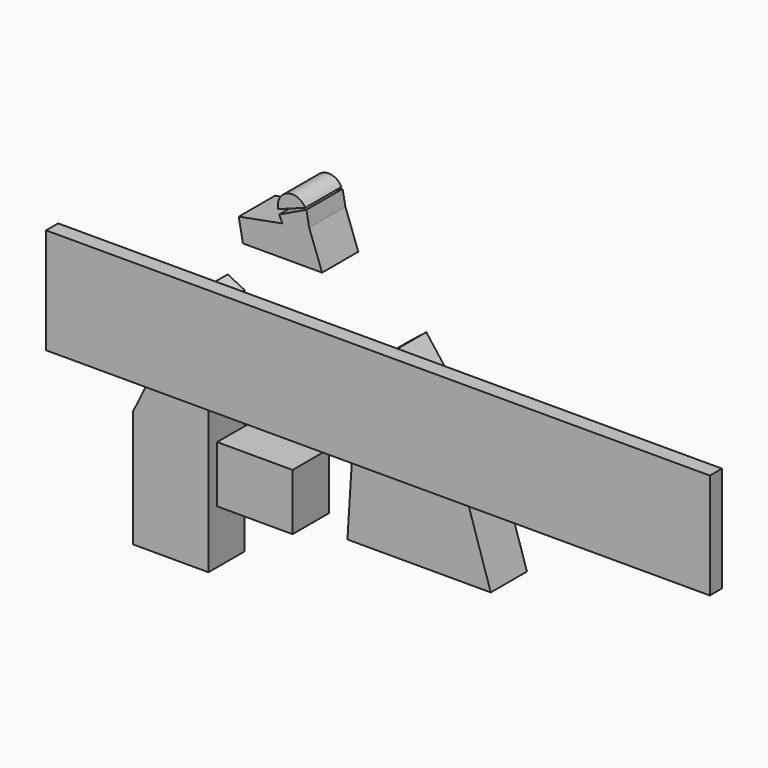
from build123d import *

# Parameters (mm, degrees)
F1_DEPTH  = 38.1
F3_DEPTH  = 38.1
F5_DEPTH  = 38.1
F6_W      = 63.5
F6_H      = 47.625
F7_DEPTH  = 38.1
F9_DEPTH  = 38.1
F11_W     = 558.8
F11_H     = 88.9
F12_DEPTH = 12.7


with BuildPart() as f1:
    # F0 (on Front) → F1 (new body)
    with BuildSketch(Plane.XZ):
        Polygon((0, 45.535351), (-14.912687, 33.68148), (0, -37.80462), (63.5, -37.80462), align=None)
        Polygon((63.5, -37.80462), (0, -37.80462), (-31.75, -37.80462), (-35.917188, -104.349267), (84.732812, -104.349267), align=None)
    extrude(amount=-F1_DEPTH)


with BuildPart() as f3:
    # F2 (on Front) → F3 (new body)
    with BuildSketch(Plane.XZ):
        Polygon((-152.901755, 26.997404), (-167.138389, 34.021211), (-216.401755, -68.252596), (-216.401755, -166.677596), (-152.901755, -166.677596), align=None)
    extrude(amount=-F3_DEPTH)


with BuildPart() as f5:
    # F4 (on Front) → F5 (new body)
    with BuildSketch(Plane.XZ):
        Polygon((-90.628035, 112.113184), (-127.418593, 105.225444), (-123.913054, 86.500762), (-57.238054, 86.500762), (-68.123768, 116.326317), align=None)
        Polygon((-93.370257, 117.840549), (-90.628035, 112.113184), (-68.123768, 116.326317), (-70.460794, 128.809438), align=None)
    extrude(amount=-F5_DEPTH)


with BuildPart() as f7:
    # F6 (on Front) → F7 (new body)
    with BuildSketch(Plane.XZ):
        with Locations((-83.364229, -66.214131)):
            Rectangle(F6_W, F6_H)
    extrude(amount=F7_DEPTH)


with BuildPart() as f9:
    # F8 (on Front) → F9 (new body)
    with BuildSketch(Plane.XZ):
        with BuildLine():
            Line((-94.286829, 121.556476), (-71.405247, 129.934371))
            ThreePointArc((-71.405247, 129.934371), (-86.495535, 135.712876), (-94.286829, 121.556476))
        make_face()
    extrude(amount=-F9_DEPTH)


with BuildPart() as f12:
    # F11 (on Front) → F12 (new body)
    with BuildSketch(Plane.XZ):
        with Locations((-0.057161, 6.301109)):
            Rectangle(F11_W, F11_H)
    extrude(amount=F12_DEPTH)


solid = Compound([f1.part, f3.part, f5.part, f7.part, f9.part, f12.part])
